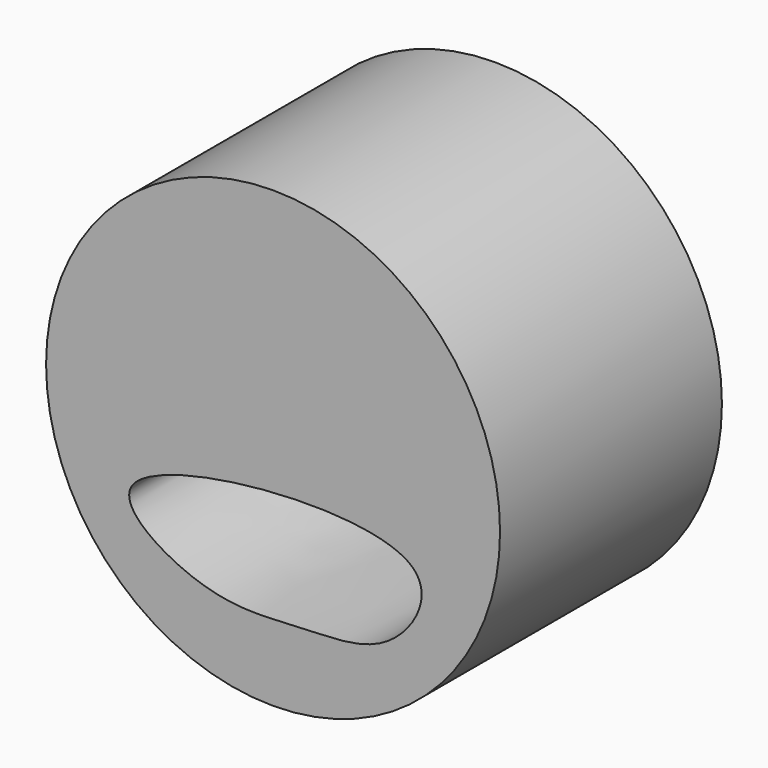
from build123d import *

# Parameters (mm, degrees)
F0_R     = 73.3792770695
F1_DEPTH = 89.662
F3_DEPTH = 343.662


with BuildPart() as f1:
    # F0 (on Front) → F1 (new body)
    with BuildSketch(Plane.XZ):
        with Locations((0, -1.7092707567)):
            Circle(F0_R)
    extrude(amount=F1_DEPTH)

    # F2 (on face) → F3 (cut)
    with BuildSketch(Plane.XZ.offset(89.662)):
        with BuildLine():
            add(Edge.make_bspline(
                [(-45.5404296517, -27.1911248565), (-50.3633601669, -34.3391391308), (-20.8466812151, -53.270478733), (8.5219954977, -48.9853039344), (39.3083512293, -50.3730619622), (63.9857433846, -5.00774103), (-37.1097048161, -14.6960368019), (-45.5404296517, -27.1911248565)],
                knots=[0, 0, 0, 0, 0.174916557, 0.3621302866, 0.5367952225, 0.6942370708, 1, 1, 1, 1], degree=3))
        make_face()
    extrude(amount=-F3_DEPTH, mode=Mode.SUBTRACT)


solid = f1.part
